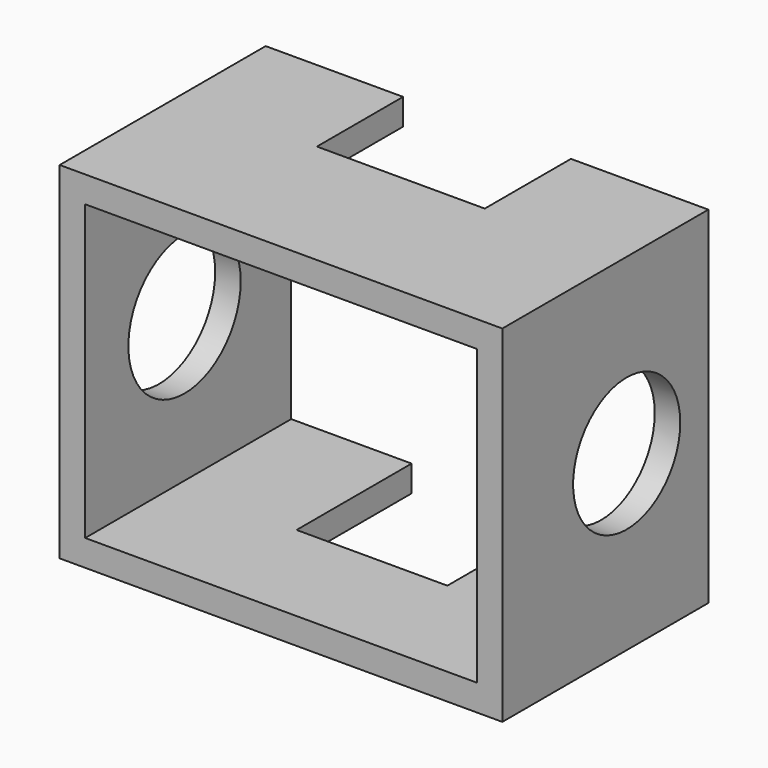
from build123d import *

# Parameters (mm, degrees)
F0_W      = 131.0027092695
F0_H      = 102.4924069643
F1_DEPTH  = 76.2
F2_W      = 115.8900782466
F2_H      = 86.941331625
F3_DEPTH  = 38.1
F4_DEPTH  = 25.4
F5_DEPTH  = 76.2
F6_W      = 44.6236804128
F6_H      = 42.5505377352
F7_DEPTH  = 76.2
F8_W      = 49.6712476015
F8_H      = 31.8642035127
F9_DEPTH  = 76.2
F10_R     = 20.7740472605
F11_DEPTH = 76.2
F12_R     = 19.8125054643
F13_DEPTH = 25.4


with BuildPart() as f1:
    # F0 (on Front) → F1 (new body)
    with BuildSketch(Plane.XZ):
        Rectangle(F0_W, F0_H)
    extrude(amount=F1_DEPTH)

    # F2 (on Front) → F3 (cut, symmetric)
    with BuildSketch(Plane.XZ):
        Rectangle(F2_W, F2_H)
    extrude(amount=F3_DEPTH, both=True, mode=Mode.SUBTRACT)

    # F4 (cut): a face of the model
    f4_faces = [f1.faces().sort_by_distance(p)[0] for p in [
        (0, -38.1, 0),
    ]]
    extrude(f4_faces, amount=-F4_DEPTH, mode=Mode.SUBTRACT)

    # F5 (cut): a face of the model
    f5_faces = [f1.faces().sort_by_distance(p)[0] for p in [
        (0, -63.5, 0),
    ]]
    extrude(f5_faces, amount=-F5_DEPTH, mode=Mode.SUBTRACT)

    # F6 (on Top) → F7 (cut)
    with BuildSketch(Plane.XY):
        with Locations((0, -21.2752688676)):
            Rectangle(F6_W, F6_H)
    extrude(amount=-F7_DEPTH, mode=Mode.SUBTRACT)

    # F8 (on face) → F9 (cut)
    with BuildSketch(Plane.XY.offset(51.2462034822)):
        with Locations((0, -15.9321017563)):
            Rectangle(F8_W, F8_H)
    extrude(amount=-F9_DEPTH, mode=Mode.SUBTRACT)

    # F10 (on Right) → F11 (cut)
    with BuildSketch(Plane.YZ):
        with Locations((-39.45556283, 0)):
            Circle(F10_R)
    extrude(amount=-F11_DEPTH, mode=Mode.SUBTRACT)

    # F12 (on face) → F13 (cut)
    with BuildSketch(Plane.YZ.offset(65.5013546348)):
        with Locations((-30.2042365074, 0)):
            Circle(F12_R)
    extrude(amount=-F13_DEPTH, mode=Mode.SUBTRACT)


solid = f1.part
